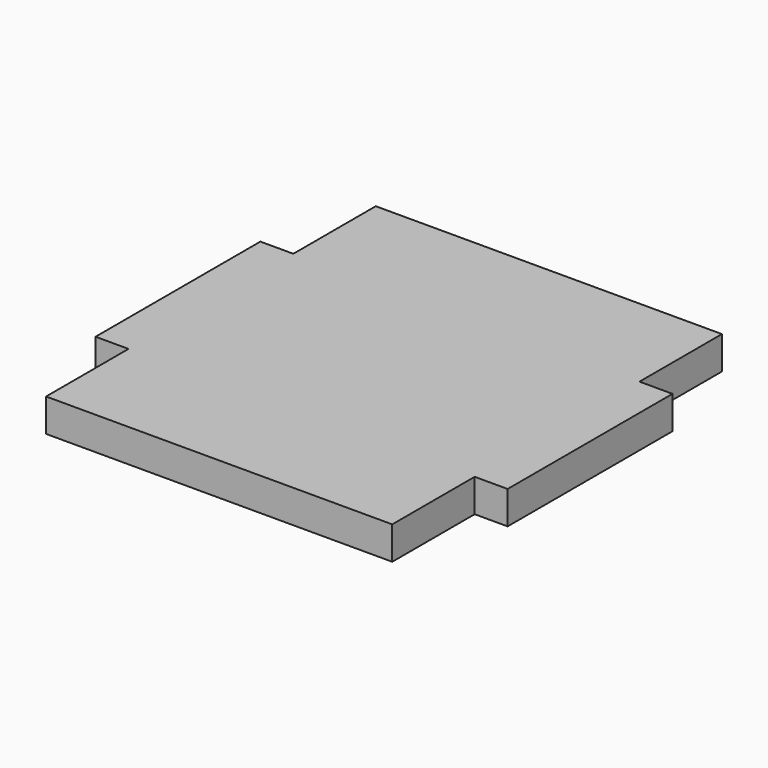
from build123d import *

# Parameters (mm, degrees)
F0_W     = 4.064
F0_H     = 25.4
F1_DEPTH = 4.064


with BuildPart() as f1:
    # F0 (on Top) → F1 (new body)
    with BuildSketch(Plane.XY):
        Polygon((21.336, 12.7), (21.336, 25.4), (-21.336, 25.4), (-21.336, 12.7), (-17.272, 12.7), (-17.272, -12.7), (-21.336, -12.7), (-21.336, -25.4), (21.336, -25.4), (21.336, -12.7), (17.272, -12.7), (17.272, 12.7), align=None)
        with Locations((19.304, 0)):
            Rectangle(F0_W, F0_H)
        with Locations((23.368, 0)):
            Rectangle(F0_W, F0_H)
        with Locations((-23.368, 0)):
            Rectangle(F0_W, F0_H)
        with Locations((-19.304, 0)):
            Rectangle(F0_W, F0_H)
    extrude(amount=F1_DEPTH)


solid = f1.part
